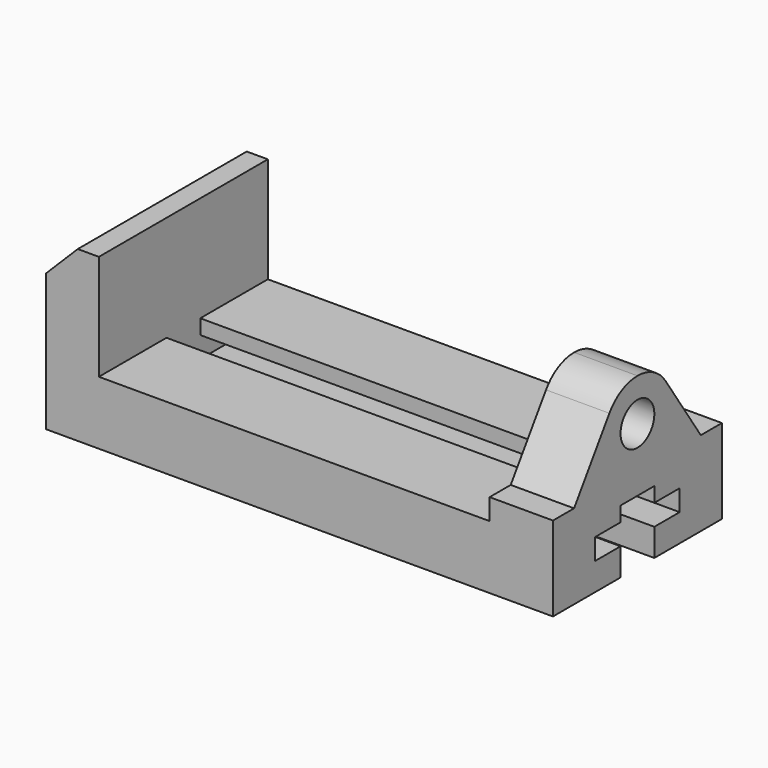
from build123d import *

# Parameters (mm, degrees)
F1_DEPTH = 63.5
F2_R     = 12.7
F3_DEPTH = 38.1
F4_DEPTH = 273.05
F5_SIZE  = 19.05


with BuildPart() as f1:
    # F0 (on Front) → F1 (new body, symmetric)
    with BuildSketch(Plane.XZ):
        Polygon((0, 101.6), (0, 0), (304.8, 0), (304.8, 101.6), (266.7, 101.6), (266.7, 38.1), (31.75, 38.1), (31.75, 101.6), align=None)
    extrude(amount=F1_DEPTH, both=True)

    # F2 (on face) → F3 (cut)
    with BuildSketch(Plane.YZ.offset(304.8)):
        with BuildLine():
            Line((-63.5, 101.6), (-63.5, 50.8))
            Line((-63.5, 50.8), (-47.625, 50.8))
            Line((-47.625, 50.8), (-21.093426, 90.350173))
            ThreePointArc((-21.093426, 90.350173), (-11.952941, 98.611765), (0, 101.6))
            Line((0, 101.6), (-63.5, 101.6))
        make_face()
        with BuildLine():
            Line((63.5, 101.6), (0, 101.6))
            ThreePointArc((0, 101.6), (11.952941, 98.611765), (21.093426, 90.350173))
            Line((21.093426, 90.350173), (47.625, 50.8))
            Line((47.625, 50.8), (63.5, 50.8))
            Line((63.5, 50.8), (63.5, 101.6))
        make_face()
        with Locations((0, 76.2)):
            Circle(F2_R)
    extrude(amount=-F3_DEPTH, mode=Mode.SUBTRACT)

    # F2 (on face) → F4 (cut)
    with BuildSketch(Plane.YZ.offset(304.8)):
        Polygon((-12.7, 16.51), (-12.7, 0), (0, 0), (12.7, 0), (12.7, 16.51), (31.75, 16.51), (31.75, 29.21), (12.7, 29.21), (12.7, 38.1), (0, 38.1), (-12.7, 38.1), (-12.7, 29.21), (-31.75, 29.21), (-31.75, 16.51), align=None)
    extrude(amount=-F4_DEPTH, mode=Mode.SUBTRACT)

    # F5
    f5_edges = [f1.edges().sort_by_distance(p)[0] for p in [
        (0, 0, 101.6),
    ]]
    chamfer(f5_edges, length=F5_SIZE)


solid = f1.part
